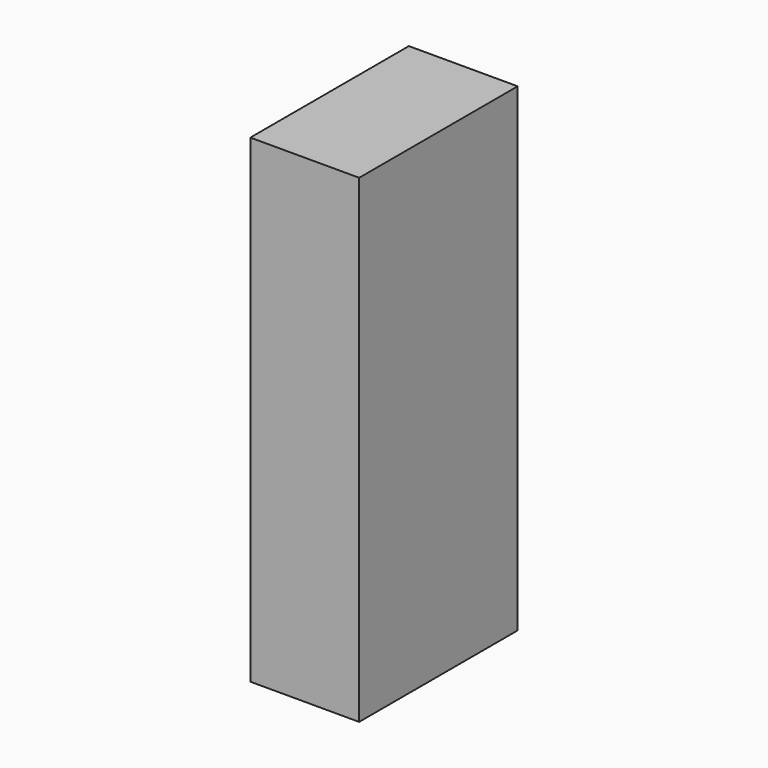
from build123d import *

# Parameters (mm, degrees)
F0_W     = 18.173233
F0_H     = 33.087656
F1_DEPTH = 750
F2_DEPTH = 80


with BuildPart() as f1:
    # F0 (on Top) → F1 (new body)
    with BuildSketch(Plane.XY):
        with Locations((9.086616, 16.543828)):
            Rectangle(F0_W, F0_H)
    extrude(amount=F1_DEPTH)

    # F0 (on Top) → F2 (intersect)
    with BuildSketch(Plane.XY):
        with Locations((9.086616, 16.543828)):
            Rectangle(F0_W, F0_H)
        with Locations((9.086616, 16.543828)):
            Rectangle(F0_W, F0_H)
    extrude(amount=F2_DEPTH, mode=Mode.INTERSECT)


solid = f1.part
